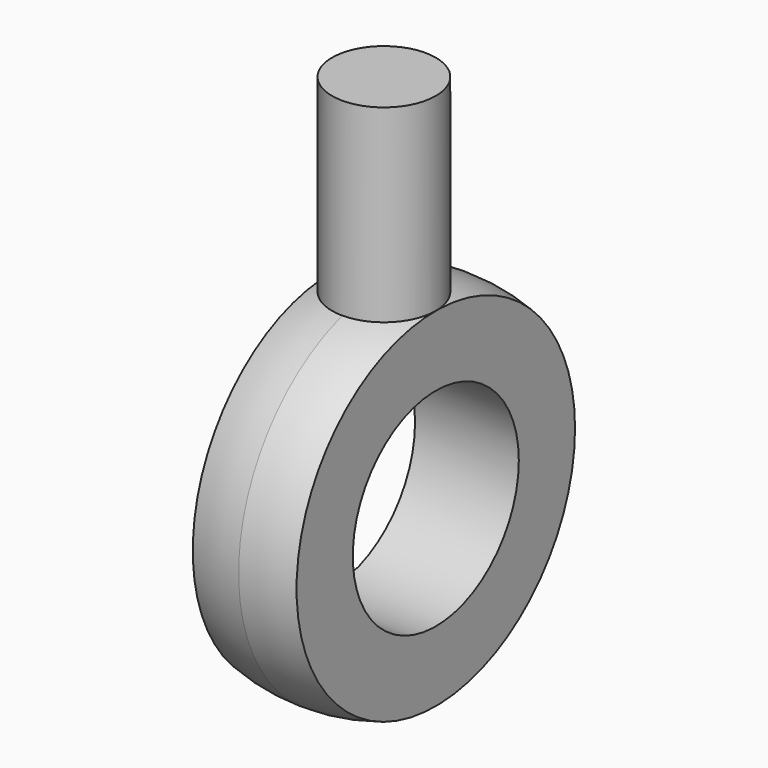
from build123d import *

# Parameters (mm, degrees)
F3_R = 10


with BuildPart() as f1:
    # F0 (on Top) → F1 (revolve)
    with BuildSketch(Plane.XY):
        with BuildLine():
            ThreePointArc((10, 33.5410196625), (5.0529353752, 34.6333342907), (0, 35))
            Line((0, 35), (0, 20))
            Line((0, 20), (10, 20))
            Line((10, 20), (10, 33.5410196625))
        make_face()
        with BuildLine():
            Line((0, 20), (0, 35))
            ThreePointArc((0, 35), (-5.0529353752, 34.6333342907), (-10, 33.5410196625))
            Line((-10, 33.5410196625), (-10, 20))
            Line((-10, 20), (0, 20))
        make_face()
    revolve(axis=Axis((-5, 0, 0), (-1, 0, 0)))


with BuildPart() as f4:
    # F3 (on offset) → F4 (new body, up to the next surface of F1)
    with BuildSketch(Plane.XY.offset(70)):
        Circle(F3_R)
    extrude(until=Until.NEXT, target=f1.part, dir=(0, 0, -1))


solid = Compound([f1.part, f4.part])
